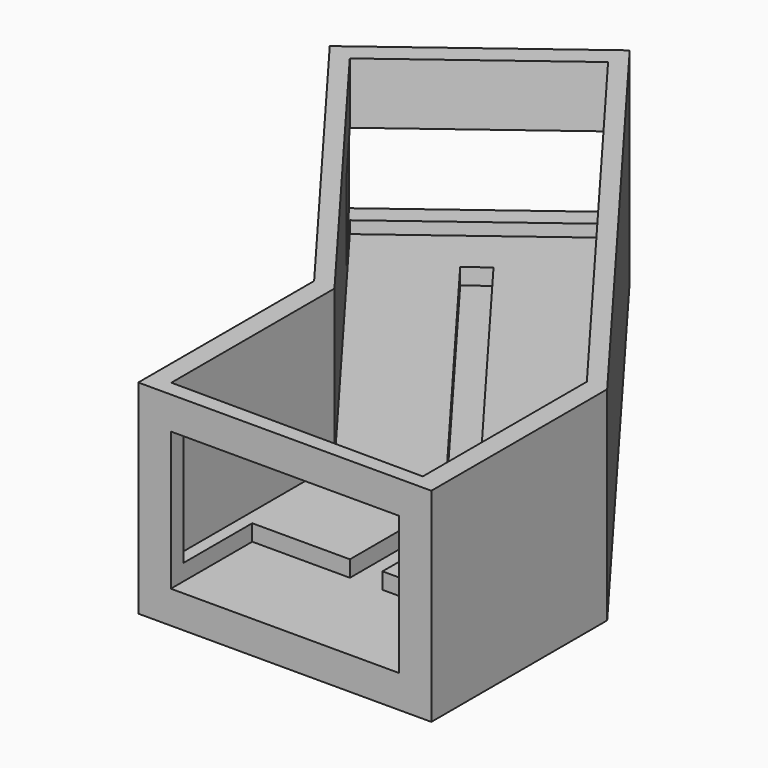
from build123d import *

# Parameters (mm, degrees)
F1_DEPTH = 12
F2_DEPTH = 50
F3_W     = 56
F3_H     = 34
F4_DEPTH = 25
F5_W     = 50
F5_H     = 20
F6_DEPTH = 25
F8_DEPTH = 4


with BuildPart() as f1:
    # F0 (on Top) → F1 (new body)
    with BuildSketch(Plane.XY):
        Polygon((-27.3359761563, -54), (44.6640238437, -54), (44.6640238437, -50), (44.6640238437, 0), (-39.9199636387, 112.655294226), (-85.9636434561, 78.0847215416), (-27.3359761563, 0), (-27.3359761563, -50), align=None)
        Polygon((39.6640238437, -50.3684133291), (-22.3359761563, -50.1054301858), (-22.3359761563, 0), (-79.7640645644, 76.4870324634), (-40.1153402772, 106.2561367194), (39.6640238437, 0), align=None, mode=Mode.SUBTRACT)
        Polygon((-22.3359761563, 0), (-22.3359761563, -50.1054301858), (39.6640238437, -50.3684133291), (39.6640238437, 0), (-40.1153402772, 106.2561367194), (-79.7640645644, 76.4870324634), align=None)
    extrude(amount=F1_DEPTH)

    # F0 (on Top) → F2 (join)
    with BuildSketch(Plane.XY):
        Polygon((-27.3359761563, -54), (44.6640238437, -54), (44.6640238437, -50), (44.6640238437, 0), (-39.9199636387, 112.655294226), (-85.9636434561, 78.0847215416), (-27.3359761563, 0), (-27.3359761563, -50), align=None)
        Polygon((39.6640238437, -50.3684133291), (-22.3359761563, -50.1054301858), (-22.3359761563, 0), (-79.7640645644, 76.4870324634), (-40.1153402772, 106.2561367194), (39.6640238437, 0), align=None, mode=Mode.SUBTRACT)
    extrude(amount=F2_DEPTH)

    # F3 (on face) → F4 (cut)
    with BuildSketch(Plane.XZ.offset(54)):
        with Locations((8.6640238437, 25)):
            Rectangle(F3_W, F3_H)
    extrude(amount=-F4_DEPTH, mode=Mode.SUBTRACT)

    # F5 (on face) → F6 (cut)
    with BuildSketch(Plane(origin=(-68.4824082667, 91.210004189, 0), x_dir=(-0.7996846585, -0.6004202253, 0), z_dir=(-0.6004202253, 0.7996846585, 0))):
        with Locations((-6.8476465531, 25)):
            Rectangle(F5_W, F5_H)
    extrude(amount=-F6_DEPTH, mode=Mode.SUBTRACT)

    # F7 (on face) → F8 (cut)
    with BuildSketch(Plane.XY.offset(12)):
        Polygon((-49.5763184557, 82.8963528815), (-54.6922828798, 79.0551781388), (4.6640238437, 0), (4.6640238437, -29), (12.6640238437, -29), (12.6640238437, 0), align=None)
    extrude(amount=-F8_DEPTH, mode=Mode.SUBTRACT)


solid = f1.part
